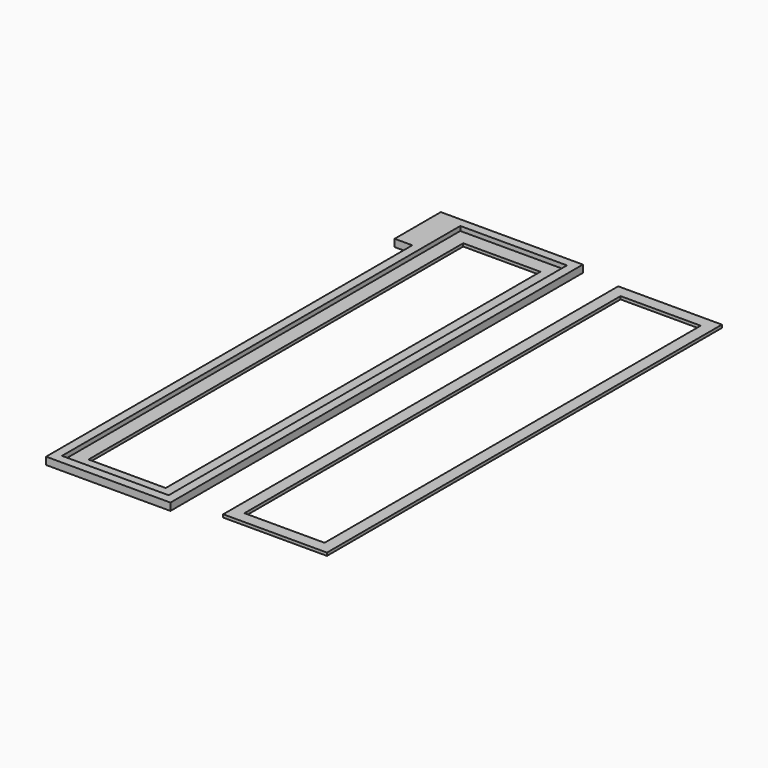
from build123d import *

# Parameters (mm, degrees)
F0_W     = 21.1
F0_H     = 87.47
F0_W_2   = 13.1
F0_H_2   = 79.47
F1_DEPTH = 1.25
F2_W     = 18.1
F2_H     = 84.47
F3_DEPTH = 0.75
F4_W     = 17.6
F4_H     = 83.77
F4_W_2   = 13.6
F4_H_2   = 79.77
F5_DEPTH = 0.5
F6_W     = 9.8
F6_H     = 1.25
F7_DEPTH = 3


with BuildPart() as f1:
    # F0 (on Top) → F1 (new body)
    with BuildSketch(Plane.XY):
        with Locations((10.55, 43.735)):
            Rectangle(F0_W, F0_H)
        with Locations((10.55, 43.735)):
            Rectangle(F0_W_2, F0_H_2, mode=Mode.SUBTRACT)
    extrude(amount=F1_DEPTH)

    # F2 (on face) → F3 (cut)
    with BuildSketch(Plane.XY.offset(1.25)):
        with Locations((10.55, 43.735)):
            Rectangle(F2_W, F2_H)
    extrude(amount=-F3_DEPTH, mode=Mode.SUBTRACT)

    # F6 (on face) → F7 (join)
    with BuildSketch(Plane(origin=(0, 0, 0), x_dir=(0, -1, 0), z_dir=(-1, 0, 0))):
        with Locations((-82.57, 0.625)):
            Rectangle(F6_W, F6_H)
    extrude(amount=F7_DEPTH)


with BuildPart() as f5:
    # F4 (on Top) → F5 (new body)
    with BuildSketch(Plane.XY):
        with Locations((36.552641, 44.763047)):
            Rectangle(F4_W, F4_H)
        with Locations((36.552641, 44.763047)):
            Rectangle(F4_W_2, F4_H_2, mode=Mode.SUBTRACT)
    extrude(amount=F5_DEPTH)


solid = Compound([f1.part, f5.part])
